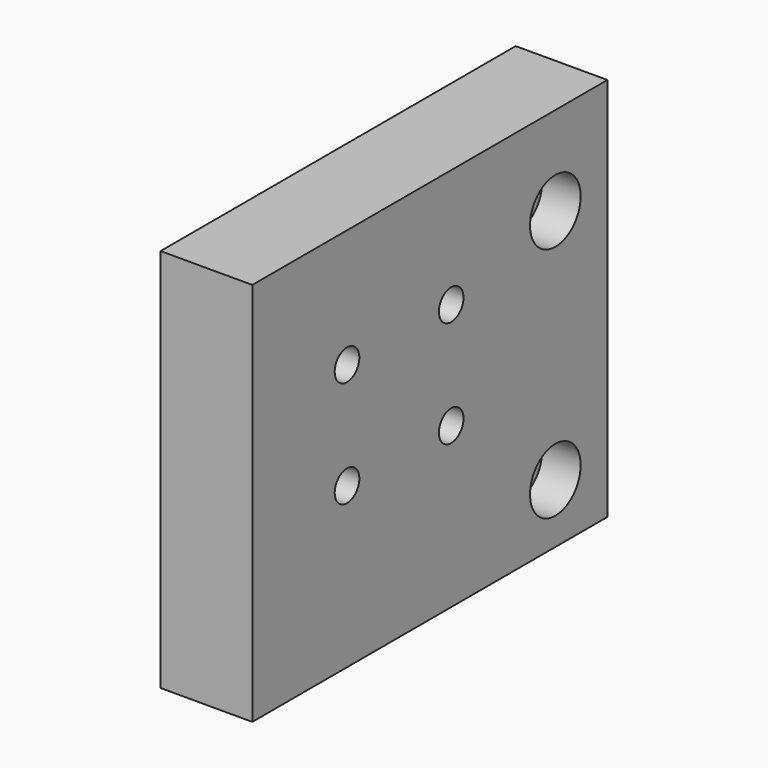
from build123d import *

# Parameters (mm, degrees)
SKETCH_W        = 15.5
SKETCH_H        = 75
PAD_DEPTH       = 65
SKETCH001_R     = 3.25
POCKET_DEPTH    = 17
SKETCH002_R     = 2.6
POCKET001_DEPTH = 5.05
SKETCH003_R     = 5.35
POCKET002_DEPTH = 6.5


with BuildPart() as part:
    # Sketch → Pad (new body)
    with BuildSketch(Plane.XY):
        with Locations((7.75, 37.5)):
            Rectangle(SKETCH_W, SKETCH_H)
    extrude(amount=PAD_DEPTH)

    # Sketch001 (on Face2 of Pad) → Pocket (cut)
    with BuildSketch(Plane.YZ.offset(15.5)):
        with Locations((64, 50)):
            Circle(SKETCH001_R)
        with Locations((64, 10)):
            Circle(SKETCH001_R)
    extrude(amount=-POCKET_DEPTH, mode=Mode.SUBTRACT)

    # Sketch002 (on Face3 of Pocket) → Pocket001 (cut)
    with BuildSketch(Plane.YZ.offset(15.5)):
        with Locations((20, 45)):
            Circle(SKETCH002_R)
        with Locations((42, 45)):
            Circle(SKETCH002_R)
        with Locations((20, 27)):
            Circle(SKETCH002_R)
        with Locations((42, 27)):
            Circle(SKETCH002_R)
    extrude(amount=-POCKET001_DEPTH, mode=Mode.SUBTRACT)

    # Sketch003 (on Face3 of Pocket001) → Pocket002 (cut)
    with BuildSketch(Plane.YZ.offset(15.5)):
        with Locations((64, 50)):
            Circle(SKETCH003_R)
        with Locations((64, 10)):
            Circle(SKETCH003_R)
    extrude(amount=-POCKET002_DEPTH, mode=Mode.SUBTRACT)


solid = part.part
